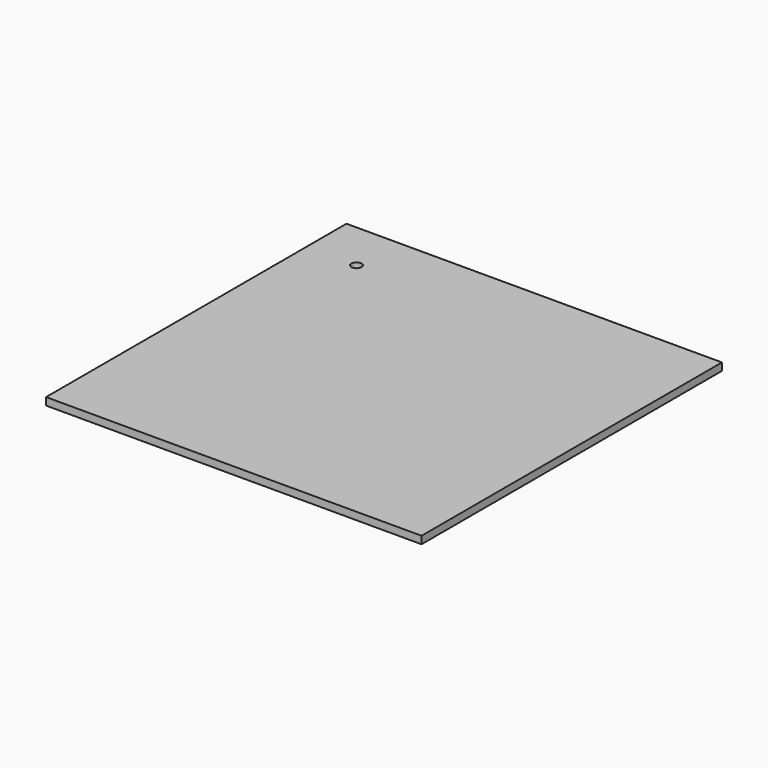
from build123d import *

# Parameters (mm, degrees)
F0_W     = 150
F0_H     = 150
F0_R     = 2
F1_DEPTH = 1.5


with BuildPart() as f1:
    # F0 (on Top) → F1 (new body, symmetric)
    with BuildSketch(Plane.XY):
        Rectangle(F0_W, F0_H)
        with Locations((-55, 55)):
            Circle(F0_R, mode=Mode.SUBTRACT)
    extrude(amount=F1_DEPTH, both=True)


solid = f1.part
